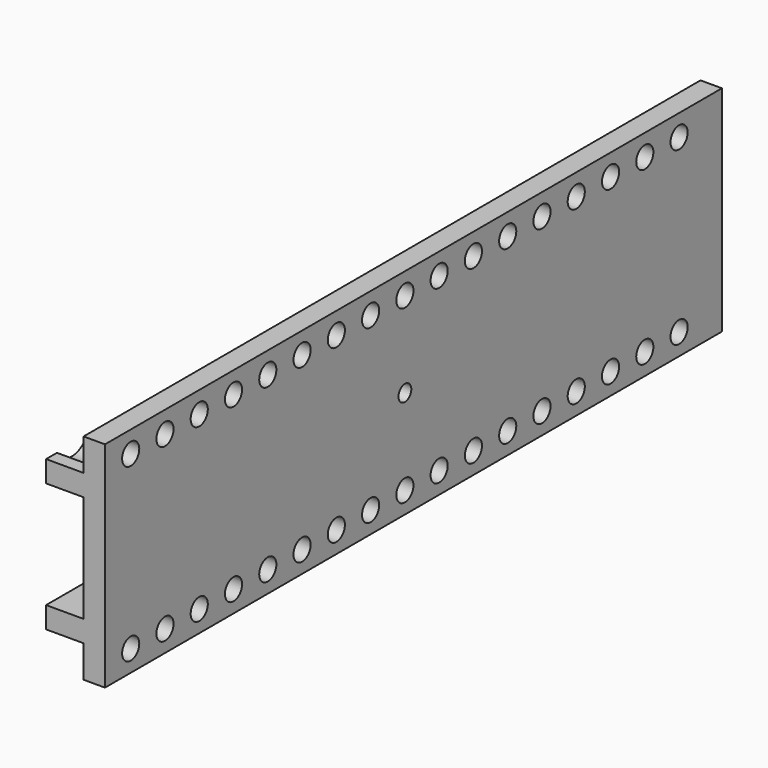
from build123d import *

# Parameters (mm, degrees)
PAD004_DEPTH    = 144
SKETCH051_W     = 40
SKETCH051_H     = 144
PAD005_DEPTH    = 4
SKETCH052_R     = 1.5
POCKET019_DEPTH = 5
SKETCH014_R     = 2
POCKET020_DEPTH = 4
SKETCH015_R     = 4
POCKET021_DEPTH = 7


with BuildPart() as leftback001:
    # Sketch050 → Pad004 (new body)
    with BuildSketch(Plane.XZ):
        Polygon((0, 0), (0, 10), (7, 10), (7, 14), (-4, 14), (-4, -14), (7, -14), (7, -10), (0, -10), align=None)
    extrude(amount=PAD004_DEPTH)

    # Sketch051 (on Face4 of Pad004) → Pad005 (join)
    with BuildSketch(Plane(origin=(-4, 0, 0), x_dir=(0, 0, -1), z_dir=(-1, 0, 0))):
        with Locations((0, 72)):
            Rectangle(SKETCH051_W, SKETCH051_H)
    extrude(amount=-PAD005_DEPTH)

    # Sketch052 (on Face14 of Pad005) → Pocket019 (cut)
    with BuildSketch(Plane(origin=(-4, 0, 0), x_dir=(0, 0, -1), z_dir=(-1, 0, 0))):
        with Locations((0, 74)):
            Circle(SKETCH052_R)
    extrude(amount=-POCKET019_DEPTH, mode=Mode.SUBTRACT)

    # Sketch014 (on Face13 of Pocket019) → Pocket020 (cut)
    with BuildSketch(Plane(origin=(-4, 0, 0), x_dir=(0, 0, -1), z_dir=(-1, 0, 0))):
        with Locations((-16, 10)):
            Circle(SKETCH014_R)
        with Locations((-16, 18)):
            Circle(SKETCH014_R)
        with Locations((-16, 26)):
            Circle(SKETCH014_R)
        with Locations((-16, 34)):
            Circle(SKETCH014_R)
        with Locations((-16, 42)):
            Circle(SKETCH014_R)
        with Locations((-16, 50)):
            Circle(SKETCH014_R)
        with Locations((-16, 58)):
            Circle(SKETCH014_R)
        with Locations((-16, 66)):
            Circle(SKETCH014_R)
        with Locations((-16, 138)):
            Circle(SKETCH014_R)
        with Locations((-16, 130)):
            Circle(SKETCH014_R)
        with Locations((-16, 122)):
            Circle(SKETCH014_R)
        with Locations((-16, 114)):
            Circle(SKETCH014_R)
        with Locations((-16, 106)):
            Circle(SKETCH014_R)
        with Locations((-16, 98)):
            Circle(SKETCH014_R)
        with Locations((-16, 90)):
            Circle(SKETCH014_R)
        with Locations((-16, 82)):
            Circle(SKETCH014_R)
        with Locations((-16, 74)):
            Circle(SKETCH014_R)
        with Locations((16, 138)):
            Circle(SKETCH014_R)
        with Locations((16, 130)):
            Circle(SKETCH014_R)
        with Locations((16, 122)):
            Circle(SKETCH014_R)
        with Locations((16, 114)):
            Circle(SKETCH014_R)
        with Locations((16, 106)):
            Circle(SKETCH014_R)
        with Locations((16, 98)):
            Circle(SKETCH014_R)
        with Locations((16, 90)):
            Circle(SKETCH014_R)
        with Locations((16, 82)):
            Circle(SKETCH014_R)
        with Locations((16, 74)):
            Circle(SKETCH014_R)
        with Locations((16, 66)):
            Circle(SKETCH014_R)
        with Locations((16, 58)):
            Circle(SKETCH014_R)
        with Locations((16, 50)):
            Circle(SKETCH014_R)
        with Locations((16, 42)):
            Circle(SKETCH014_R)
        with Locations((16, 34)):
            Circle(SKETCH014_R)
        with Locations((16, 26)):
            Circle(SKETCH014_R)
        with Locations((16, 18)):
            Circle(SKETCH014_R)
        with Locations((16, 10)):
            Circle(SKETCH014_R)
    extrude(amount=-POCKET020_DEPTH, mode=Mode.SUBTRACT)

    # Sketch015 (on Face15 of Pocket019) → Pocket021 (cut)
    with BuildSketch(Plane(origin=(0, 0, 0), x_dir=(0, 0, 1), z_dir=(1, 0, 0))):
        with Locations((-16, 10)):
            Circle(SKETCH015_R)
        with Locations((-16, 18)):
            Circle(SKETCH015_R)
        with Locations((-16, 26)):
            Circle(SKETCH015_R)
        with Locations((-16, 34)):
            Circle(SKETCH015_R)
        with Locations((-16, 42)):
            Circle(SKETCH015_R)
        with Locations((-16, 50)):
            Circle(SKETCH015_R)
        with Locations((-16, 58)):
            Circle(SKETCH015_R)
        with Locations((-16, 66)):
            Circle(SKETCH015_R)
        with Locations((-16, 138)):
            Circle(SKETCH015_R)
        with Locations((-16, 130)):
            Circle(SKETCH015_R)
        with Locations((-16, 122)):
            Circle(SKETCH015_R)
        with Locations((-16, 114)):
            Circle(SKETCH015_R)
        with Locations((-16, 106)):
            Circle(SKETCH015_R)
        with Locations((-16, 98)):
            Circle(SKETCH015_R)
        with Locations((-16, 90)):
            Circle(SKETCH015_R)
        with Locations((-16, 82)):
            Circle(SKETCH015_R)
        with Locations((-16, 74)):
            Circle(SKETCH015_R)
        with Locations((16, 138)):
            Circle(SKETCH015_R)
        with Locations((16, 130)):
            Circle(SKETCH015_R)
        with Locations((16, 122)):
            Circle(SKETCH015_R)
        with Locations((16, 114)):
            Circle(SKETCH015_R)
        with Locations((16, 106)):
            Circle(SKETCH015_R)
        with Locations((16, 98)):
            Circle(SKETCH015_R)
        with Locations((16, 90)):
            Circle(SKETCH015_R)
        with Locations((16, 82)):
            Circle(SKETCH015_R)
        with Locations((16, 74)):
            Circle(SKETCH015_R)
        with Locations((16, 66)):
            Circle(SKETCH015_R)
        with Locations((16, 58)):
            Circle(SKETCH015_R)
        with Locations((16, 50)):
            Circle(SKETCH015_R)
        with Locations((16, 42)):
            Circle(SKETCH015_R)
        with Locations((16, 34)):
            Circle(SKETCH015_R)
        with Locations((16, 26)):
            Circle(SKETCH015_R)
        with Locations((16, 18)):
            Circle(SKETCH015_R)
        with Locations((16, 10)):
            Circle(SKETCH015_R)
    extrude(amount=POCKET021_DEPTH, mode=Mode.SUBTRACT)


with BuildPart() as leftback001_1:
    # Body016 placement: moved
    add(leftback001.part.moved(Location((-92, -265.5, 13.5))))


with BuildPart() as rightback001:
    # Part__Mirroring004: instance of LeftBack001
    add(leftback001_1.part.mirror(Plane(origin=(0, 0, 0), x_dir=(0, -1, 0), z_dir=(1, 0, 0))))


solid = rightback001.part
